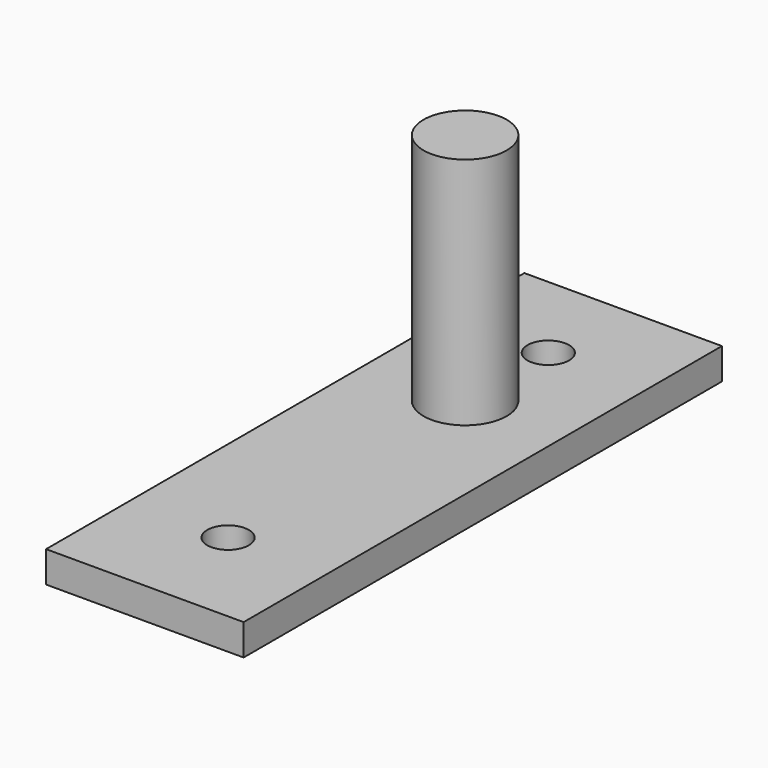
from build123d import *

# Parameters (mm, degrees)
F1_DEPTH = 6
F2_R     = 8
F5_DEPTH = 45
F3_R     = 4
F6_DEPTH = 6.001
F4_R     = 4
F7_DEPTH = 6.001


with BuildPart() as f1:
    # F0 (on Top) → F1 (new body)
    with BuildSketch(Plane.XY):
        Polygon((19, 57.5), (0, 57.5), (-19, 57.5), (-19, 0), (-19, -57.5), (0, -57.5), (19, -57.5), (19, 0), align=None)
    extrude(amount=F1_DEPTH)

    # F2 (on face) → F5 (join)
    with BuildSketch(Plane.XY.offset(6)):
        with Locations((0, 19.5)):
            Circle(F2_R)
    extrude(amount=F5_DEPTH)

    # F3 (on face) → F6 (cut, through all)
    with BuildSketch(Plane.XY.offset(6)):
        with Locations((0, 39.5)):
            Circle(F3_R)
    extrude(amount=-F6_DEPTH, mode=Mode.SUBTRACT)

    # F4 (on face) → F7 (cut, through all)
    with BuildSketch(Plane.XY.offset(6)):
        with Locations((0, -37.5)):
            Circle(F4_R)
    extrude(amount=-F7_DEPTH, mode=Mode.SUBTRACT)


solid = f1.part
